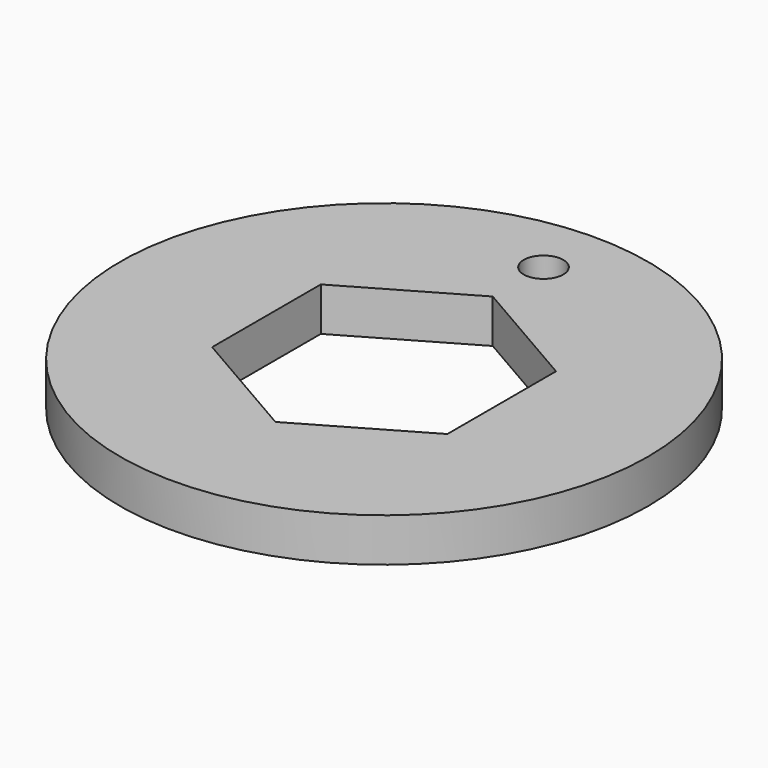
from build123d import *

# Parameters (mm, degrees)
CYLINDER_R      = 20
CYLINDER_DEPTH  = 3.3
SKETCH_R        = 1.5
POCKET_DEPTH    = 3.301
POCKET001_DEPTH = 5


with BuildPart() as part:
    # Cylinder → Cylinder (new body)
    with BuildSketch(Plane.XY):
        Circle(CYLINDER_R)
    extrude(amount=CYLINDER_DEPTH)

    # Sketch (on Face2 of Cylinder) → Pocket (cut, through all)
    with BuildSketch(Plane.XY.offset(3.3)):
        with Locations((0, 15.1)):
            Circle(SKETCH_R)
    extrude(amount=-POCKET_DEPTH, mode=Mode.SUBTRACT)

    # CopySketch001 → Pocket001 (cut)
    with BuildSketch(Plane.XY.offset(3.3)):
        Polygon((8.911401, 5.145), (0, 10.29), (-8.911401, 5.145), (-8.911401, -5.145), (0, -10.29), (8.911401, -5.145), align=None)
    extrude(amount=-POCKET001_DEPTH, mode=Mode.SUBTRACT)


solid = part.part
